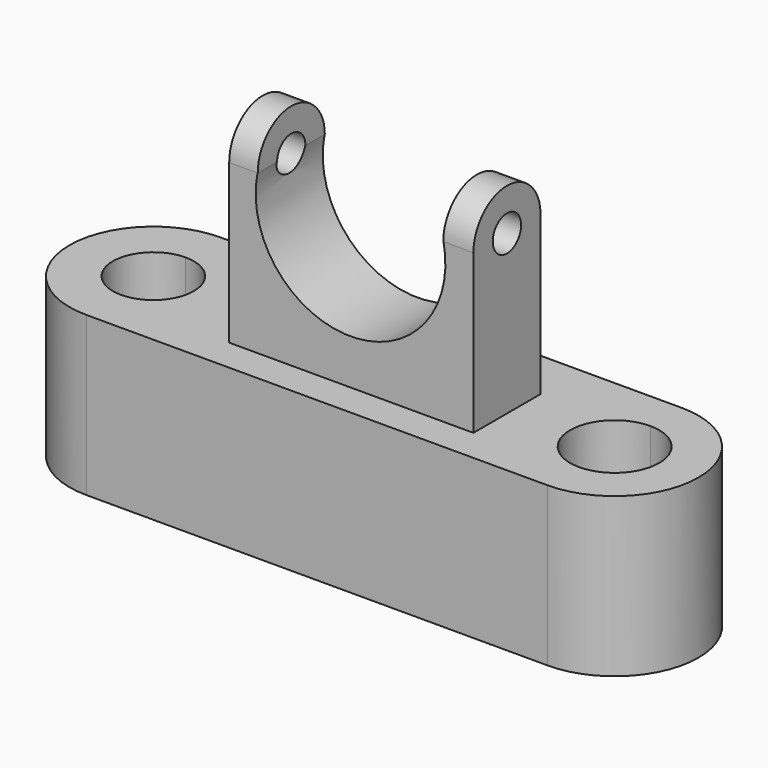
from build123d import *

# Parameters (mm, degrees)
F1_DEPTH  = 25.4
F2_DEPTH  = 50.8
F5_DEPTH  = 25.4
F6_DEPTH  = 4.572
F8_DEPTH  = 4.826
F9_R      = 2.841234
F10_DEPTH = 49.784


with BuildPart() as f1:
    # F0 (on Top) → F1 (new body)
    with BuildSketch(Plane.XY):
        with BuildLine():
            Line((-36.646917, 10.717721), (-36.646917, 17.666442))
            ThreePointArc((-36.646917, 17.666442), (-50.079254, 4.234106), (-36.646917, -9.19823))
            Line((-36.646917, -9.19823), (-36.646917, -2.249508))
            ThreePointArc((-36.646917, -2.249508), (-43.130532, 4.234106), (-36.646917, 10.717721))
        make_face()
        with BuildLine():
            Line((37.230935, 17.666442), (-36.646917, 17.666442))
            Line((-36.646917, 17.666442), (-36.646917, 10.717721))
            ThreePointArc((-36.646917, 10.717721), (-32.06231, 8.818714), (-30.163303, 4.234106))
            ThreePointArc((-30.163303, 4.234106), (-32.06231, -0.350501), (-36.646917, -2.249508))
            Line((-36.646917, -2.249508), (-36.646917, -9.19823))
            Line((-36.646917, -9.19823), (37.230935, -9.19823))
            Line((37.230935, -9.19823), (37.230935, -2.894706))
            ThreePointArc((37.230935, -2.894706), (30.102123, 4.234106), (37.230935, 11.362918))
            Line((37.230935, 11.362918), (37.230935, 17.666442))
        make_face()
        Polygon((-17.989082, 0), (-17.989082, 9.521575), (21.121064, 9.521575), (21.121064, 0), (21.121064, -3.904298), (-17.989082, -3.904298), align=None, mode=Mode.SUBTRACT)
        with BuildLine():
            ThreePointArc((37.230935, -9.19823), (50.663271, 4.234106), (37.230935, 17.666442))
            Line((37.230935, 17.666442), (37.230935, 11.362918))
            ThreePointArc((37.230935, 11.362918), (42.271766, 9.274937), (44.359747, 4.234106))
            ThreePointArc((44.359747, 4.234106), (42.271766, -0.806725), (37.230935, -2.894706))
            Line((37.230935, -2.894706), (37.230935, -9.19823))
        make_face()
    extrude(amount=F1_DEPTH)

    # F0 (on Top) → F2 (join)
    with BuildSketch(Plane.XY):
        Polygon((21.121064, 9.521575), (-17.989082, 9.521575), (-17.989082, 0), (-17.989082, -3.904298), (21.121064, -3.904298), (21.121064, 0), align=None)
    extrude(amount=F2_DEPTH)

    # F4 (on face) → F5 (cut)
    with BuildSketch(Plane.XZ.offset(3.904298)):
        with BuildLine():
            Line((16.338727, 50.8), (-13.450965, 50.8))
            ThreePointArc((-13.450965, 50.8), (1.443881, 32.607662), (16.338727, 50.8))
        make_face()
    extrude(amount=-F5_DEPTH, mode=Mode.SUBTRACT)

    # F3 (on face) → F6 (join)
    with BuildSketch(Plane(origin=(-17.989082, 0, 0), x_dir=(0, -1, 0), z_dir=(-1, 0, 0))):
        with BuildLine():
            Line((-9.521575, 50.8), (3.904298, 50.8))
            ThreePointArc((3.904298, 50.8), (-2.808638, 57.512936), (-9.521575, 50.8))
        make_face()
    extrude(amount=-F6_DEPTH)

    # F7 (on face) → F8 (join)
    with BuildSketch(Plane.YZ.offset(21.121064)):
        with BuildLine():
            Line((-3.904298, 50.8), (9.521575, 50.8))
            ThreePointArc((9.521575, 50.8), (2.808638, 57.512936), (-3.904298, 50.8))
        make_face()
    extrude(amount=-F8_DEPTH)

    # F9 (on face) → F10 (cut)
    with BuildSketch(Plane(origin=(-17.989082, 0, 0), x_dir=(0, -1, 0), z_dir=(-1, 0, 0))):
        with Locations((-2.808638, 50.8)):
            Circle(F9_R)
    extrude(amount=-F10_DEPTH, mode=Mode.SUBTRACT)


solid = f1.part
